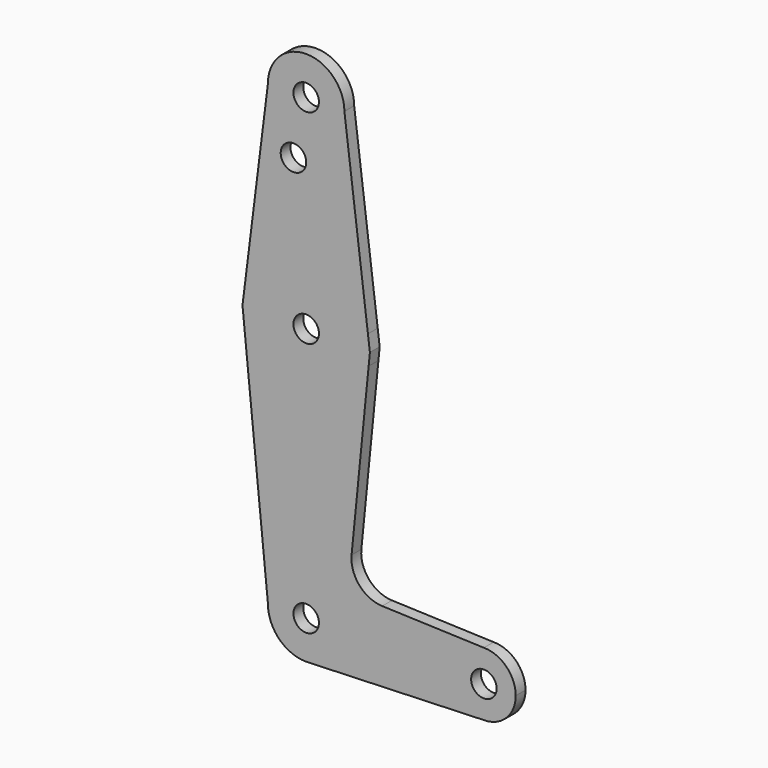
from build123d import *

# Parameters (mm, degrees)
F0_R     = 3.175
F1_DEPTH = 3.048


with BuildPart() as f1:
    # F0 (on Front) → F1 (new body)
    with BuildSketch(Plane.XZ):
        with BuildLine():
            Line((35.473324, 16.953568), (29.611785, 63.845876))
            ThreePointArc((29.611785, 63.845876), (20.086785, 54.320876), (10.561785, 63.845876))
            Line((10.561785, 63.845876), (4.700247, 16.953568))
            ThreePointArc((4.700247, 16.953568), (20.086785, 28.920876), (35.473324, 16.953568))
        make_face()
        with Locations((16.911785, 49.571076)):
            Circle(F0_R, mode=Mode.SUBTRACT)
        with BuildLine():
            ThreePointArc((10.561785, 63.845876), (20.086785, 54.320876), (29.611785, 63.845876))
            ThreePointArc((29.611785, 63.845876), (20.086785, 73.370876), (10.561785, 63.845876))
        make_face()
        with Locations((20.086785, 63.845876)):
            Circle(F0_R, mode=Mode.SUBTRACT)
        with BuildLine():
            Line((35.961785, 13.045876), (35.473324, 16.953568))
            ThreePointArc((35.473324, 16.953568), (20.086785, 28.920876), (4.700247, 16.953568))
            Line((4.700247, 16.953568), (4.211785, 13.045876))
            Line((4.211785, 13.045876), (4.526142, 9.902312))
            ThreePointArc((4.526142, 9.902312), (20.098373, -2.82912), (35.652001, 9.925031))
            Line((35.652001, 9.925031), (35.961785, 13.045876))
        make_face()
        with Locations((20.086785, 13.045876)):
            Circle(F0_R, mode=Mode.SUBTRACT)
        with BuildLine():
            Line((31.403273, -32.87778), (35.652001, 9.925031))
            ThreePointArc((35.652001, 9.925031), (20.098373, -2.82912), (4.526142, 9.902312))
            Line((4.526142, 9.902312), (10.561785, -50.454124))
            ThreePointArc((10.561785, -50.454124), (20.086785, -40.929124), (29.611785, -50.454124))
            ThreePointArc((29.611785, -50.454124), (27.058937, -56.94371), (20.768797, -59.954676))
            Line((20.768797, -59.954676), (64.372039, -58.391624))
            ThreePointArc((64.372039, -58.391624), (56.434539, -50.454124), (64.372039, -42.516624))
            Line((64.372039, -42.516624), (39.029784, -41.608177))
            ThreePointArc((39.029784, -41.608177), (33.327182, -38.893432), (31.403273, -32.87778))
        make_face()
        with BuildLine():
            ThreePointArc((72.309539, -50.454124), (69.984699, -44.841464), (64.372039, -42.516624))
            ThreePointArc((64.372039, -42.516624), (56.434539, -50.454124), (64.372039, -58.391624))
            ThreePointArc((64.372039, -58.391624), (69.984699, -56.066784), (72.309539, -50.454124))
        make_face()
        with Locations((64.372039, -50.454124)):
            Circle(F0_R, mode=Mode.SUBTRACT)
        with BuildLine():
            ThreePointArc((29.611785, -50.454124), (20.086785, -40.929124), (10.561785, -50.454124))
            ThreePointArc((10.561785, -50.454124), (13.351593, -57.189316), (20.086785, -59.979124))
            Line((20.086785, -59.979124), (20.768797, -59.954676))
            ThreePointArc((20.768797, -59.954676), (27.058937, -56.94371), (29.611785, -50.454124))
        make_face()
        with Locations((20.086785, -50.454124)):
            Circle(F0_R, mode=Mode.SUBTRACT)
    extrude(amount=F1_DEPTH)


solid = f1.part
